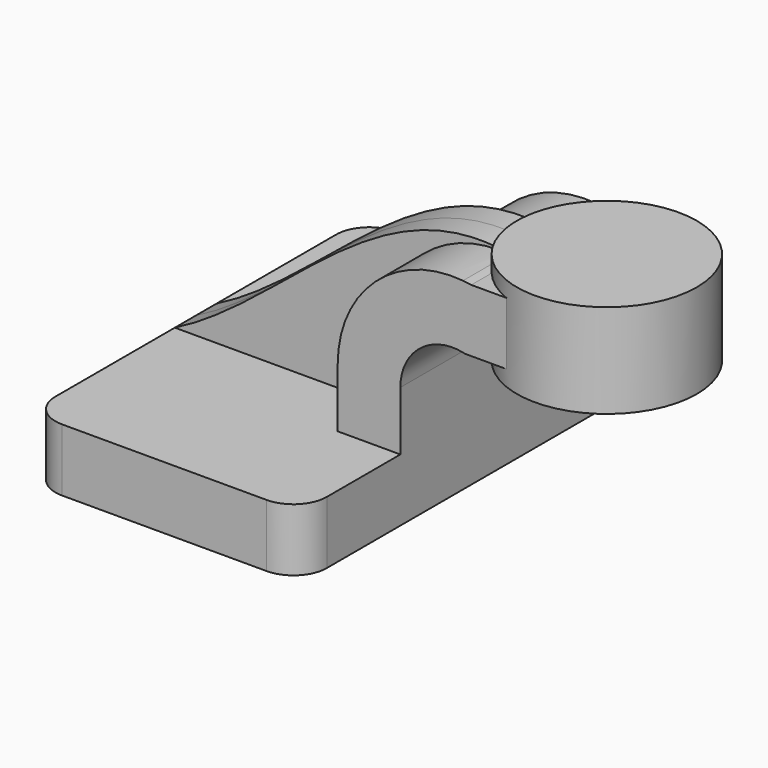
from build123d import *

# Parameters (mm, degrees)
F1_DEPTH = 63.5
F2_DEPTH = 25.4
F3_DEPTH = 25.4
F4_DEPTH = 7.9375
F6_R     = 10.16


with BuildPart() as f1:
    # F0 (on Front) → F1 (new body, symmetric)
    with BuildSketch(Plane.XZ):
        Polygon((22.225, 9.525), (-41.275, 9.525), (-41.275, -9.525), (41.275, -9.525), (41.275, 9.525), align=None)
    extrude(amount=F1_DEPTH, both=True)

    # F0 (on Front) → F2 (join, symmetric)
    with BuildSketch(Plane.XZ):
        with BuildLine():
            Line((22.225, 27.466178), (22.225, 9.525))
            Line((22.225, 9.525), (41.275, 9.525))
            Line((41.275, 9.525), (41.275, 27.466178))
            ThreePointArc((41.275, 27.466178), (47.109768, 39.762901), (60.325, 43.020438))
            Line((60.325, 43.020438), (60.325, 62.246561))
            ThreePointArc((60.325, 62.246561), (33.60357, 53.26), (22.225, 27.466178))
        make_face()
    extrude(amount=F2_DEPTH, both=True)

    # F0 (on Front) → F3 (join, symmetric)
    with BuildSketch(Plane.XZ):
        with BuildLine():
            ThreePointArc((62.836075, 61.9252), (61.58345, 62.10864), (60.325, 62.246561))
            Line((60.325, 62.246561), (60.325, 43.020438))
            ThreePointArc((60.325, 43.020438), (60.64729, 42.951158), (60.968073, 42.8752))
            Line((60.968073, 42.8752), (83.748926, 42.8752))
            Line((83.748926, 42.8752), (83.748926, 61.9252))
            Line((83.748926, 61.9252), (62.836075, 61.9252))
        make_face()
    extrude(amount=F3_DEPTH, both=True)

    # F0 (on Front) → F4 (join, symmetric)
    with BuildSketch(Plane.XZ):
        with BuildLine():
            add(Edge.make_bspline(
                [(-41.275, 9.525), (-7.276739, 26.636683), (20.247733, 69.46599), (60.325, 62.428354)],
                knots=[0, 0, 0, 0, 114.185038, 114.185038, 114.185038, 114.185038], degree=3))
            Line((-41.275, 9.525), (22.225, 9.525))
            Line((22.225, 9.525), (22.225, 27.466178))
            ThreePointArc((22.225, 27.466178), (33.60357, 53.26), (60.325, 62.246561))
            Line((60.325, 62.246561), (60.325, 62.428354))
        make_face()
    extrude(amount=F4_DEPTH, both=True)

    # F0 (on Front) → F5 (revolve)
    with BuildSketch(Plane.XZ):
        Polygon((111.125, 66.675), (83.748926, 66.675), (83.748926, 61.9252), (83.748926, 42.8752), (83.748926, 38.1), (111.125, 38.1), align=None)
    revolve(axis=Axis((83.748926, 0, 52.3875), (0, 0, 1)))

    # F6
    f6_edges = [f1.edges().sort_by_distance(p)[0] for p in [
        (41.275, 63.5, 0),
        (-41.275, 63.5, 0),
        (41.275, -63.5, 0),
        (-41.275, -63.5, 0),
    ]]
    fillet(f6_edges, radius=F6_R)


solid = f1.part
